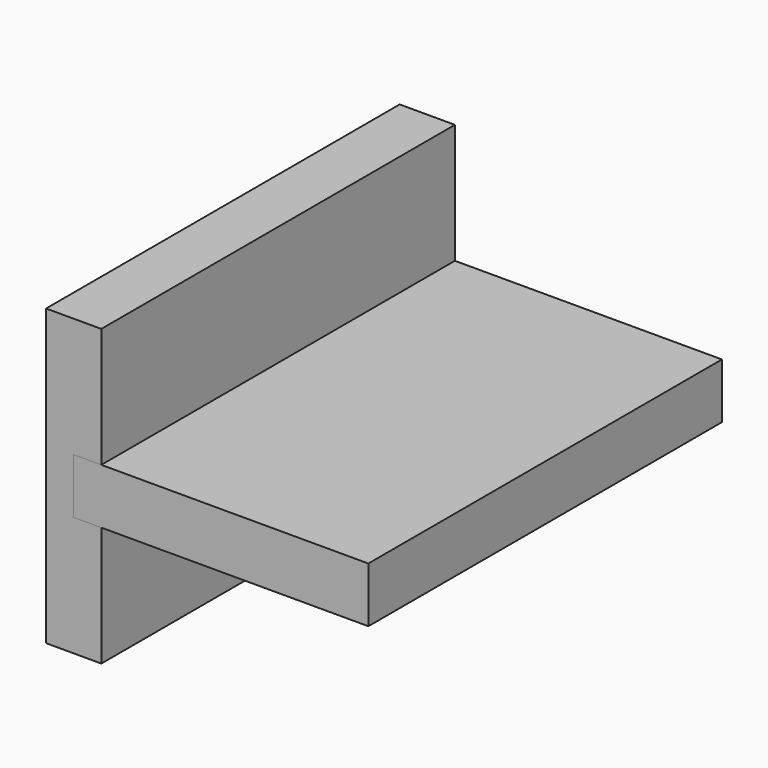
from build123d import *

# Parameters (mm, degrees)
F0_W      = 19.05
F0_H      = 152.4
F1_DEPTH  = 50.8
F2_W      = 152.4
F2_H      = 19.05
F3_DEPTH  = 9.525
F3_FACE_W = 152.4
F3_FACE_H = 19.05
F4_DEPTH  = 101.6


with BuildPart() as f1:
    # F0 (on Top) → F1 (new body, symmetric)
    with BuildSketch(Plane.XY):
        Rectangle(F0_W, F0_H)
    extrude(amount=F1_DEPTH, both=True)

    # F2 (on face) → F3 (cut)
    with BuildSketch(Plane.YZ.offset(9.525)):
        Rectangle(F2_W, F2_H)
    extrude(amount=-F3_DEPTH, mode=Mode.SUBTRACT)


with BuildPart() as f4:
    # F3_face (on face) → F4 (new body)
    with BuildSketch(Plane.YZ):
        Rectangle(F3_FACE_W, F3_FACE_H)
    extrude(amount=F4_DEPTH)


solid = Compound([f1.part, f4.part])
